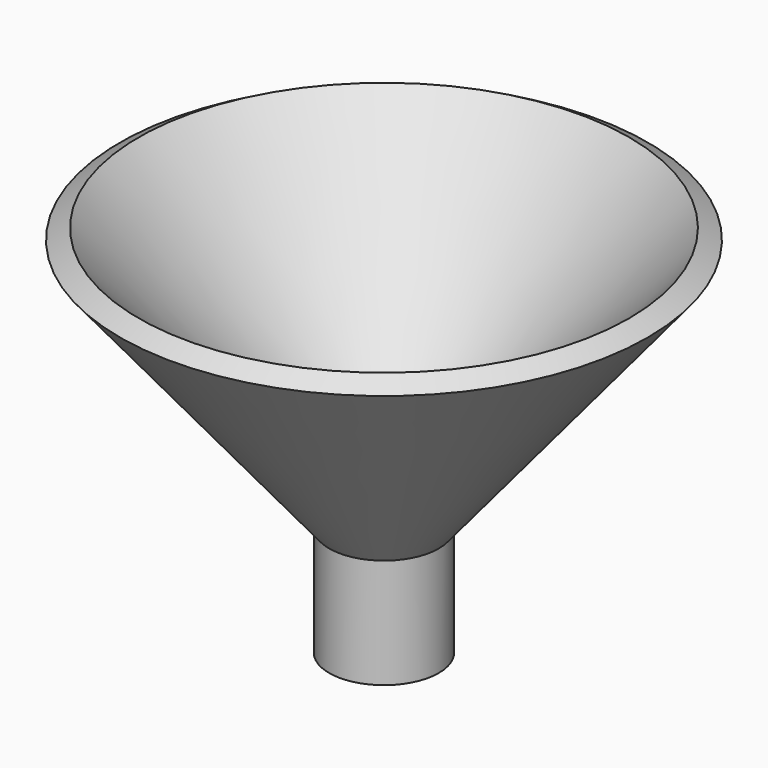
from build123d import *

# Parameters (mm, degrees)
F2_R     = 9.964068
F3_DEPTH = 50.8


with BuildPart() as f1:
    # F0 (on Front) → F1 (revolve)
    with BuildSketch(Plane.XZ):
        Polygon((0, 0), (48.45633, 58.808368), (44.110525, 61.296444), (-12.7, 0), (-12.7, -25.4), (0, -25.4), align=None)
    revolve(axis=Axis((-12.7, 0, -12.7), (0, 0, 1)))

    # F2 (on face) → F3 (cut)
    with BuildSketch(Plane(origin=(0, 0, -25.4), x_dir=(1, 0, 0), z_dir=(0, 0, -1))):
        with Locations((-12.7, 0)):
            Circle(F2_R)
    extrude(amount=-F3_DEPTH, mode=Mode.SUBTRACT)


solid = f1.part
